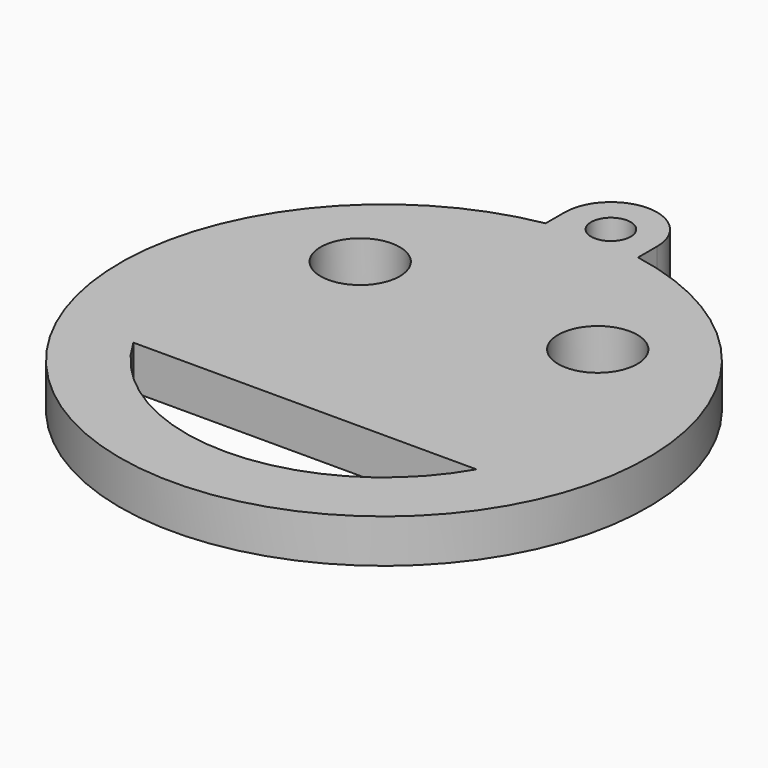
from build123d import *

# Parameters (mm, degrees)
EXTRUDE_DEPTH   = 3.3
SKETCH001_R     = 1.5
POCKET_DEPTH    = 3.301
SKETCH002_R     = 3
POCKET001_DEPTH = 3.301


with BuildPart() as part:
    # Sketch → Extrude (new body)
    with BuildSketch(Plane.XY):
        with BuildLine():
            ThreePointArc((3.5, 21.5), (0, 25), (-3.5, 21.5))
            Line((-3.5, 21.5), (-3.5, 19.691369))
            ThreePointArc((-3.5, 19.691369), (0, -20), (3.5, 19.691369))
            Line((3.5, 19.691369), (3.5, 21.5))
        make_face()
    extrude(amount=EXTRUDE_DEPTH)

    # Sketch001 → Pocket (cut, through all)
    with BuildSketch(Plane.XY.offset(3.3)):
        with Locations((0, 21.5)):
            Circle(SKETCH001_R)
    extrude(amount=-POCKET_DEPTH, mode=Mode.SUBTRACT)

    # Sketch002 → Pocket001 (cut, through all)
    with BuildSketch(Plane.XY.offset(3.3)):
        with Locations((-9, 9)):
            Circle(SKETCH002_R)
        with Locations((9, 9)):
            Circle(SKETCH002_R)
        with BuildLine():
            ThreePointArc((-13, -7.483315), (0, -15), (13, -7.483315))
            Line((-13, -7.483315), (13, -7.483315))
        make_face()
    extrude(amount=-POCKET001_DEPTH, mode=Mode.SUBTRACT)


solid = part.part
